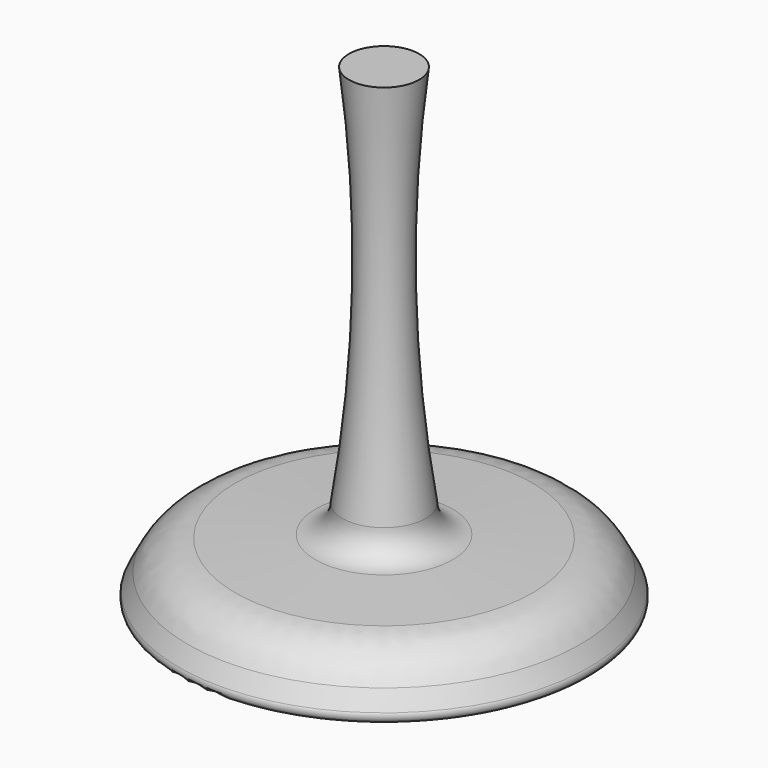
from build123d import *

# Parameters (mm, degrees)
F2_R = 5.08
F3_R = 0.635


with BuildPart() as f1:
    # F0 (on Front) → F1 (revolve)
    with BuildSketch(Plane.XZ):
        with BuildLine():
            ThreePointArc((-3.768967, 7.97639), (-4.492542, 6.243991), (-6.208299, 5.481795))
            Line((-6.208299, 5.481795), (-16.375725, 5.08))
            Line((-16.375725, 5.08), (-19.05, 0))
            Line((-19.05, 0), (0, 0))
            Line((0, 0), (0, 42.714926))
            Line((0, 42.714926), (-3.175, 42.714926))
            ThreePointArc((-3.175, 42.714926), (-2.256928, 25.324883), (-3.768967, 7.97639))
        make_face()
    revolve(axis=Axis((0, 0, 25.4), (0, 0, 1)))

    # F2
    f2_edges = [f1.edges().sort_by_distance(p)[0] for p in [
        (16.375725, 0, 5.08),
    ]]
    fillet(f2_edges, radius=F2_R)

    # F3
    f3_edges = [f1.edges().sort_by_distance(p)[0] for p in [
        (19.05, 0, 0),
    ]]
    fillet(f3_edges, radius=F3_R)


solid = f1.part
